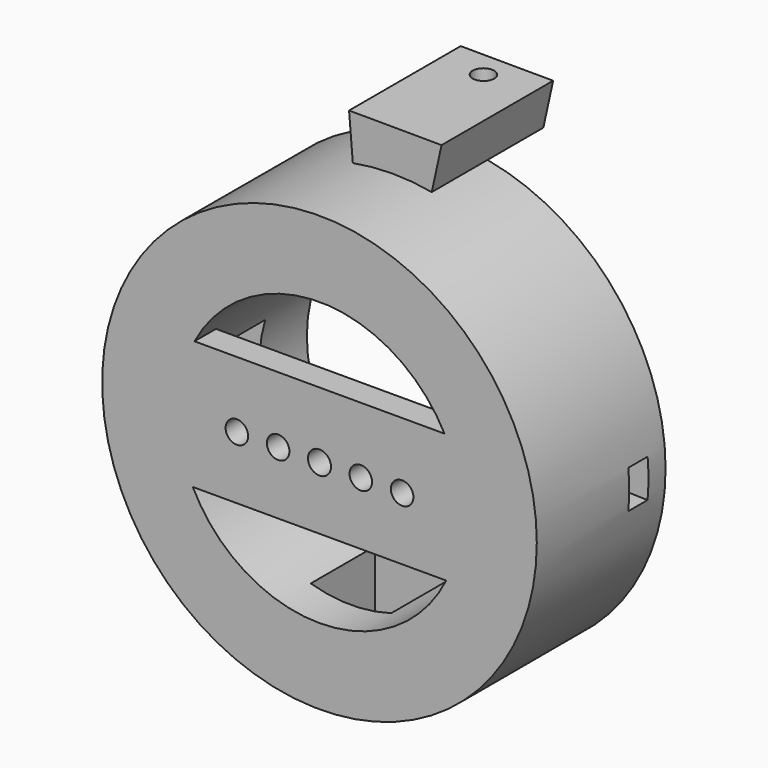
from build123d import *

# Parameters (mm, degrees)
F0_R      = 40.5
F0_R_2    = 26.35
F1_DEPTH  = 30
F3_R      = 1.5
F3_R_2    = 1.4971843494
F4_DEPTH  = 20
F5_DEPTH  = 4.5
F8_R      = 2.1
F9_DEPTH  = 5
F11_DEPTH = 7.5
F13_DEPTH = 7.5
F15_DEPTH = 13
F16_R     = 3.6
F17_DEPTH = 46
F18_R     = 2
F19_DEPTH = 56.1


with BuildPart() as f1:
    # F0 (on Front) → F1 (new body)
    with BuildSketch(Plane.XZ):
        Circle(F0_R)
        Circle(F0_R_2, mode=Mode.SUBTRACT)
    extrude(amount=F1_DEPTH)

    # F3 (on face) → F4 (cut)
    with BuildSketch(Plane(origin=(0, 0, 0), x_dir=(-1, 0, 0), z_dir=(0, 1, 0))):
        with Locations((35.1829901338, 0)):
            Circle(F3_R)
        with Locations((-35.143841058, 0)):
            Circle(F3_R_2)
    extrude(amount=-F4_DEPTH, mode=Mode.SUBTRACT)


with BuildPart() as f5:
    # F2 (on face) → F5 (new body)
    with BuildSketch(Plane(origin=(0, 0, 0), x_dir=(-1, 0, 0), z_dir=(0, 1, 0))):
        with BuildLine():
            Line((31.4417050999, -0.0505083237), (33.2118794322, -3.2991641201))
            Line((33.2118794322, -3.2991641201), (40.3284073856, -3.7241855136))
            ThreePointArc((40.3284073856, -3.7241855136), (40.4570791032, -1.8640682502), (40.5, 0))
            ThreePointArc((40.5, 0), (40.4540427839, 1.9288396616), (40.3162754351, 3.8533018366))
            Line((40.3162754351, 3.8533018366), (33.4046960151, 3.3494916763))
            Line((33.4046960151, 3.3494916763), (31.4417050999, -0.0505083237))
        make_face()
    extrude(amount=-F5_DEPTH)


with BuildPart() as f5b:
    # F2 (on face) → F5, piece 2 (new body)
    with BuildSketch(Plane(origin=(0, 0, 0), x_dir=(-1, 0, 0), z_dir=(0, 1, 0))):
        with BuildLine():
            ThreePointArc((-40.3470564936, 3.5163947881), (-40.499972404, -0.0472787167), (-40.3387366241, -3.6105854882))
            Line((-40.3387366241, -3.6105854882), (-33.3921143039, -3.4494947623))
            Line((-33.3921143039, -3.4494947623), (-31.4291233886, -0.0494947623))
            Line((-31.4291233886, -0.0494947623), (-33.392132321, 3.44931331))
            Line((-33.392132321, 3.44931331), (-40.3470564936, 3.5163947881))
        make_face()
    extrude(amount=-F5_DEPTH)


with BuildPart() as f5_1:
    # F6: moved
    add(f5.part.moved(Location((0, -4, 0))))


with BuildPart() as f5b_1:
    # F6: moved
    add(f5b.part.moved(Location((0, -4, 0))))


with BuildPart() as f1_1:
    add(f1.part)

    # F7: cut F5b, F5
    add(f5b_1.part, mode=Mode.SUBTRACT)
    add(f5_1.part, mode=Mode.SUBTRACT)

    # F8 (on face) → F9 (join)
    with BuildSketch(Plane.XZ.offset(30)):
        with BuildLine():
            Line((23.2959026648, 12.31354616), (-23.2959026648, 12.31354616))
            ThreePointArc((-23.2959026648, 12.31354616), (-26.3476461649, 0.3521953552), (-23.6167164662, -11.68645384))
            Line((-23.6167164662, -11.68645384), (23.6167164662, -11.68645384))
            ThreePointArc((23.6167164662, -11.68645384), (25.6575815197, -6.0009174763), (26.35, 0))
            ThreePointArc((26.35, 0), (25.5750809893, 6.3433218736), (23.2959026648, 12.31354616))
        make_face()
        with Locations((-15.4, 0)):
            Circle(F8_R, mode=Mode.SUBTRACT)
        with BuildLine():
            ThreePointArc((-9.8, 0), (-7.7, 2.1), (-5.6, 0))
            ThreePointArc((-5.6, 0), (-7.7, -2.1), (-9.8, 0))
        make_face(mode=Mode.SUBTRACT)
        with BuildLine():
            ThreePointArc((-2.15, 0), (0, 2.15), (2.15, 0))
            ThreePointArc((2.15, 0), (0, -2.15), (-2.15, 0))
        make_face(mode=Mode.SUBTRACT)
        with BuildLine():
            ThreePointArc((9.8, 0), (7.7, -2.1), (5.6, 0))
            ThreePointArc((5.6, 0), (7.7, 2.1), (9.8, 0))
        make_face(mode=Mode.SUBTRACT)
        with BuildLine():
            ThreePointArc((17.5, 0), (15.4, -2.1), (13.3, 0))
            ThreePointArc((13.3, 0), (15.4, 2.1), (17.5, 0))
        make_face(mode=Mode.SUBTRACT)
    extrude(amount=-F9_DEPTH)

    # F10 (on Right) → F11 (cut, symmetric)
    with BuildSketch(Plane.YZ):
        Polygon((-7.6641152985, -38.8216372541), (-7.6641152985, -23.0135689676), (-22.6641152985, -23.0135689676), (-22.6641152985, -43.0135689676), (-7.6641152985, -43.0135689676), align=None)
    extrude(amount=F11_DEPTH, both=True, mode=Mode.SUBTRACT)

    # F12 (on Top) → F13 (cut, symmetric)
    with BuildSketch(Plane.XY):
        Polygon((-23.9540541172, -11.0713796305), (-43.9540541172, -11.0713796305), (-43.9540541172, -12.5608391675), (-43.9540541172, -22.5713796305), (-23.9540541172, -22.5713796305), align=None)
    extrude(amount=F13_DEPTH, both=True, mode=Mode.SUBTRACT)

    # F14 (on face) → F15 (join, symmetric)
    with BuildSketch(Plane(origin=(0, 0, 0), x_dir=(-1, 0, 0), z_dir=(0, 1, 0))):
        with BuildLine():
            Line((7.388848836, 39.8202826821), (8.0884635863, 48.2109669128))
            Line((8.0884635863, 48.2109669128), (-9.1429123127, 48.1351951361))
            Line((-9.1429123127, 48.1351951361), (-7.3191832289, 39.8331464595))
            ThreePointArc((-7.3191832289, 39.8331464595), (0.0354216515, 40.49998451), (7.388848836, 39.8202826821))
        make_face()
    extrude(amount=F15_DEPTH, both=True)

    # F16 (on Top) → F17 (cut)
    with BuildSketch(Plane.XY):
        with Locations((0, 8.0334944651)):
            Circle(F16_R)
    extrude(amount=F17_DEPTH, mode=Mode.SUBTRACT)

    # F18 (on Top) → F19 (cut)
    with BuildSketch(Plane.XY):
        with Locations((0.0754839784, 8.1013115123)):
            Circle(F18_R)
    extrude(amount=F19_DEPTH, mode=Mode.SUBTRACT)


solid = f1_1.part
